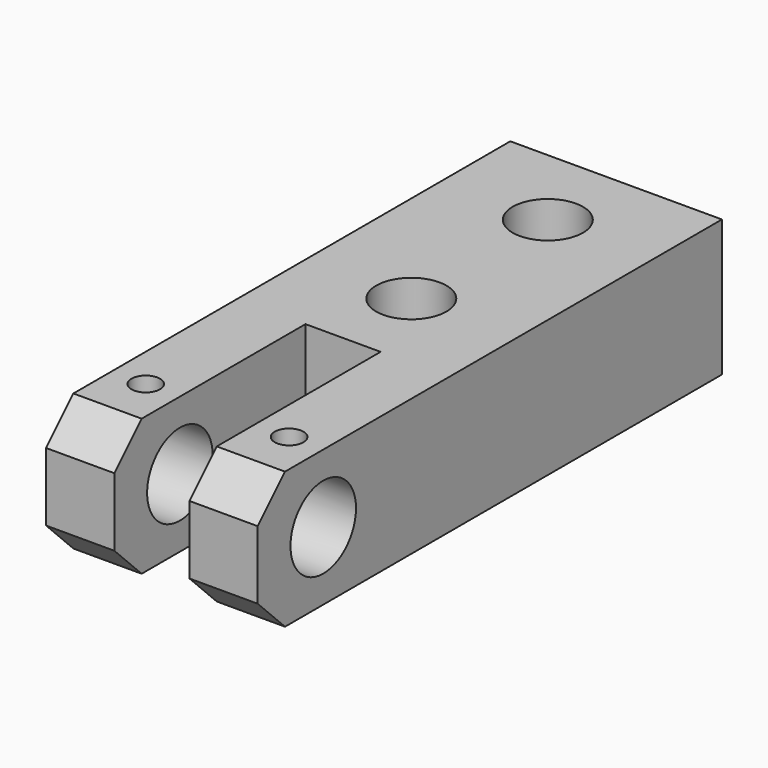
from build123d import *

# Parameters (mm, degrees)
F1_DEPTH  = 20
F3_D      = 12
F5_D      = 4.2
F5_DEPTH  = 14.4
F5_TIP    = 1.2618073
F6_SIZE   = 5
F7_W      = 60
F7_H      = 20
F8_DEPTH  = 30
F10_D     = 10.3
F11_W     = 29
F11_H     = 50
F12_DEPTH = 20.001


with BuildPart() as f1:
    # F0 (on Top) → F1 (new body)
    with BuildSketch(Plane.XY):
        Polygon((60, 0), (0, 0), (0, -55), (10, -55), (10, -20), (21, -20), (21, -55), (31, -55), (31, -20), (60, -20), align=None)
    extrude(amount=F1_DEPTH)

    # F3 (through all)
    with Locations(Plane(origin=(0, 0, 0), x_dir=(0, -1, 0), z_dir=(-1, 0, 0))):
        with Locations((43, 10)):
            Hole(F3_D / 2)

    # F5
    with Locations(Plane.XY.offset(20)):
        with Locations((5, -43), (26, -43)):
            Hole(F5_D / 2, depth=F5_DEPTH)
            with Locations((0, 0, -(F5_DEPTH + F5_TIP / 2))):  # 118° drill point
                Cone(0, F5_D / 2, F5_TIP, mode=Mode.SUBTRACT)

    # F6
    f6_edges = [f1.edges().sort_by_distance(p)[0] for p in [
        (5, -55, 20),
        (26, -55, 20),
        (26, -55, 0),
        (5, -55, 0),
    ]]
    chamfer(f6_edges, length=F6_SIZE)

    # F7 (on face) → F8 (join)
    with BuildSketch(Plane(origin=(0, 0, 0), x_dir=(-1, 0, 0), z_dir=(0, 1, 0))):
        with Locations((-30, 10)):
            Rectangle(F7_W, F7_H)
    extrude(amount=F8_DEPTH)

    # F10 (through all)
    with Locations(Plane.XY.offset(20)):
        with Locations((15.5, 17.5), (15.5, -7.5)):
            Hole(F10_D / 2)

    # F11 (on face) → F12 (cut, through all)
    with BuildSketch(Plane.XY.offset(20)):
        with Locations((45.5, 5)):
            Rectangle(F11_W, F11_H)
    extrude(amount=-F12_DEPTH, mode=Mode.SUBTRACT)


solid = f1.part
